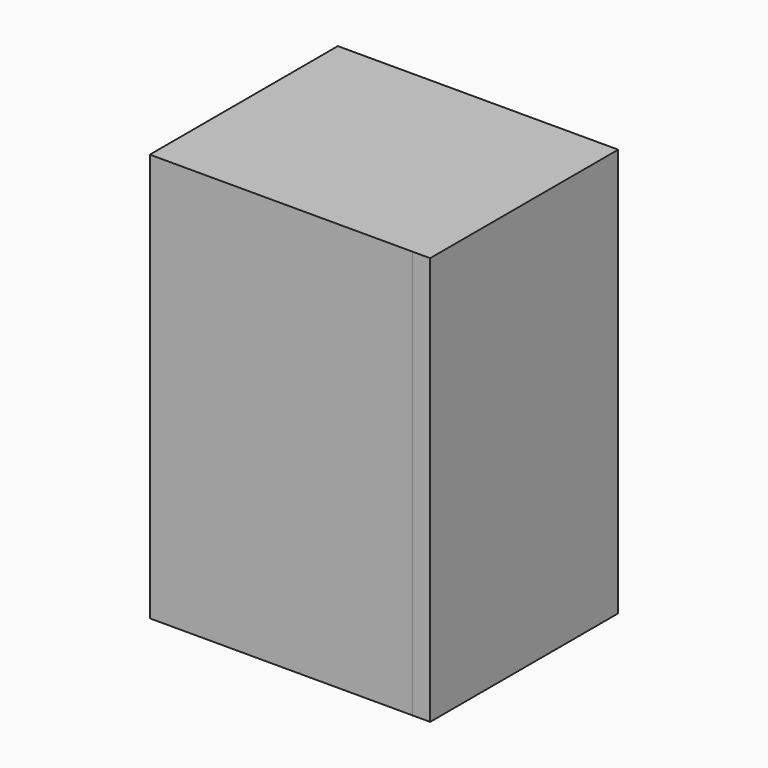
from build123d import *

# Parameters (mm, degrees)
F0_W     = 50.075641
F0_H     = 86.981378
F1_DEPTH = 3.74579
F2_W     = 41.021582
F2_H     = 82.464814
F3_DEPTH = 55.985011


with BuildPart() as f1:
    # F0 (on Right) → F1 (new body)
    with BuildSketch(Plane.YZ):
        with Locations((-9.649326, -43.490689)):
            Rectangle(F0_W, F0_H)
    extrude(amount=-F1_DEPTH)

    # F2 (on face) → F3 (join)
    with BuildSketch(Plane(origin=(-3.74579, 0, 0), x_dir=(0, -1, 0), z_dir=(-1, 0, 0))):
        with Locations((9.814544, -41.232407)):
            Rectangle(F2_W, F2_H)
        Polygon((-10.696247, -82.464814), (-10.696247, 0), (-15.388494, 0), (-15.388494, -86.981378), (34.687147, -86.981378), (34.687147, 0), (30.325335, 0), (30.325335, -82.464814), align=None)
    extrude(amount=F3_DEPTH)


solid = f1.part
